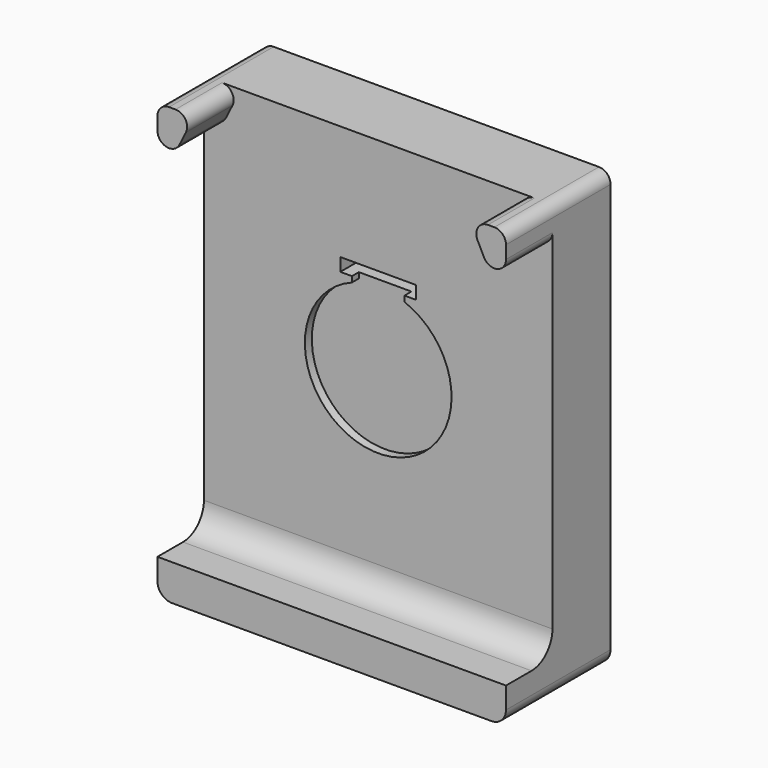
from build123d import *

# Parameters (mm, degrees)
F0_W      = 120
F0_H      = 150
F1_DEPTH  = 45
F3_DEPTH  = 20
F4_R      = 9
F5_R      = 4
F6_R      = 5
F7_W      = 25.5
F7_H      = 19.05
F8_DEPTH  = 5.1
F10_DEPTH = 3
F12_DEPTH = 22.001


with BuildPart() as f1:
    # F0 (on Front) → F1 (new body)
    with BuildSketch(Plane.XZ):
        with Locations((0, 5)):
            Rectangle(F0_W, F0_H)
    extrude(amount=F1_DEPTH)

    # F2 (on face) → F3 (cut)
    with BuildSketch(Plane.XZ.offset(45)):
        Polygon((-60, -57.6), (60, -57.6), (60, 54.6), (47.3, 80), (-47.3, 80), (-60, 54.6), align=None)
    extrude(amount=-F3_DEPTH, mode=Mode.SUBTRACT)

    # F4
    f4_edges = [f1.edges().sort_by_distance(p)[0] for p in [
        (0, -25, -57.6),
    ]]
    fillet(f4_edges, radius=F4_R)

    # F5
    f5_edges = [f1.edges().sort_by_distance(p)[0] for p in [
        (60, -35, 54.6),
        (-60, -35, 54.6),
        (-47.3, -35, 80),
        (-60, -22.5, 80),
        (60, -22.5, 80),
        (47.3, -35, 80),
    ]]
    fillet(f5_edges, radius=F5_R)

    # F6
    f6_edges = [f1.edges().sort_by_distance(p)[0] for p in [
        (60, -22.5, -70),
        (-60, -22.5, -70),
    ]]
    fillet(f6_edges, radius=F6_R)

    # F7 (on face) → F8 (cut)
    with BuildSketch(Plane(origin=(0, 0, 0), x_dir=(-1, 0, 0), z_dir=(0, 1, 0))):
        with Locations((-0.05, 0)):
            Rectangle(F7_W, F7_H)
        with BuildLine():
            add(Edge.make_bspline(
                [(-3.074624, 33.516029), (-7.791336, 40.77913), (-19.271044, 28.161035), (-30.750752, 15.542941), (-14.554332, 20.897935), (1.642089, 26.252929), (-3.074624, 33.516029)],
                knots=[0, 0, 0, 2.094395, 2.094395, 4.18879, 4.18879, 6.283185, 6.283185, 6.283185], degree=2, weights=[1, 0.5, 1, 0.5, 1, 0.5, 1]))
        make_face()
    extrude(amount=-F8_DEPTH, mode=Mode.SUBTRACT)

    # F9 (on face) → F10 (cut)
    with BuildSketch(Plane.XZ.offset(25)):
        with BuildLine():
            Line((-9.05, 35.9), (-9.05, 33.972442))
            ThreePointArc((-9.05, 33.972442), (0, -14.85), (9.05, 33.972442))
            Line((9.05, 33.972442), (9.05, 35.9))
            Line((9.05, 35.9), (13.05, 35.9))
            Line((13.05, 35.9), (13.05, 40.4))
            Line((13.05, 40.4), (-13.05, 40.4))
            Line((-13.05, 40.4), (-13.05, 35.9))
            Line((-13.05, 35.9), (-9.05, 35.9))
        make_face()
    extrude(amount=-F10_DEPTH, mode=Mode.SUBTRACT)

    # F11 (on face) → F12 (cut, through all)
    with BuildSketch(Plane.XZ.offset(22)):
        Polygon((13.05, 40.4), (-13.05, 40.4), (-13.05, 35.9), (-9.05, 35.9), (9.05, 35.9), (13.05, 35.9), align=None)
    extrude(amount=-F12_DEPTH, mode=Mode.SUBTRACT)


solid = f1.part
